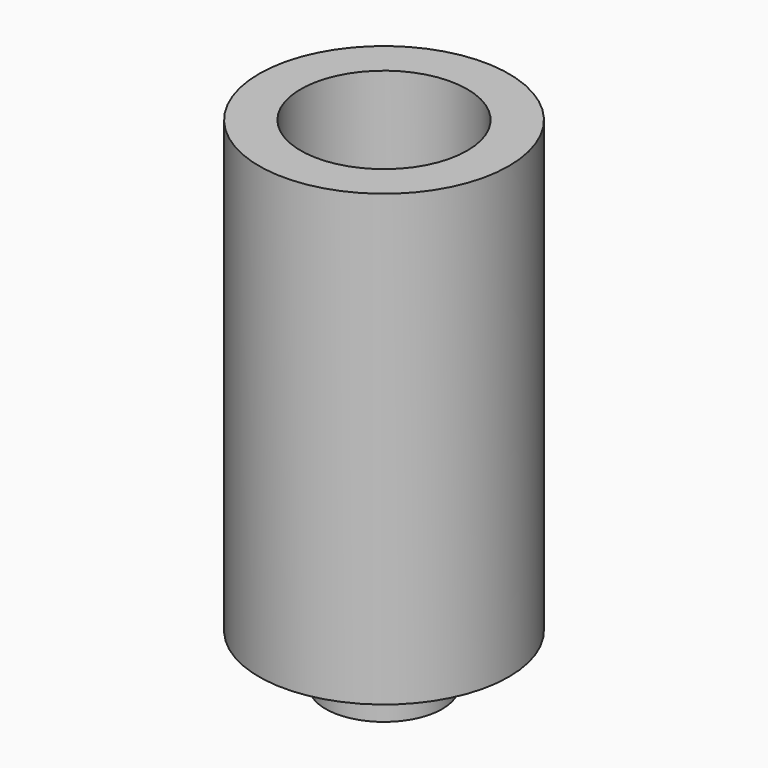
from build123d import *

# Parameters (mm, degrees)
F0_R     = 7.5
F1_DEPTH = 30
F2_R     = 2.05
F3_DEPTH = 4
F5_R     = 5
F6_DEPTH = 26
F8_R     = 7.5
F8_R_2   = 3.5
F9_DEPTH = 3


with BuildPart() as f1:
    # F0 (on Top) → F1 (new body)
    with BuildSketch(Plane.XY):
        Circle(F0_R)
    extrude(amount=F1_DEPTH)

    # F2 (on Top) → F3 (cut)
    with BuildSketch(Plane.XY):
        Circle(F2_R)
    extrude(amount=F3_DEPTH, mode=Mode.SUBTRACT)

    # F5 (on offset) → F6 (cut, through all)
    with BuildSketch(Plane(origin=(0, 0, 4), x_dir=(1, 0, 0), z_dir=(0, 0, -1))):
        Circle(F5_R)
    extrude(amount=-F6_DEPTH, mode=Mode.SUBTRACT)

    # F8 (on offset) → F9 (cut, through all)
    with BuildSketch(Plane(origin=(0, 0, 3), x_dir=(1, 0, 0), z_dir=(0, 0, -1))):
        Circle(F8_R)
        Circle(F8_R_2, mode=Mode.SUBTRACT)
    extrude(amount=F9_DEPTH, mode=Mode.SUBTRACT)


solid = f1.part
